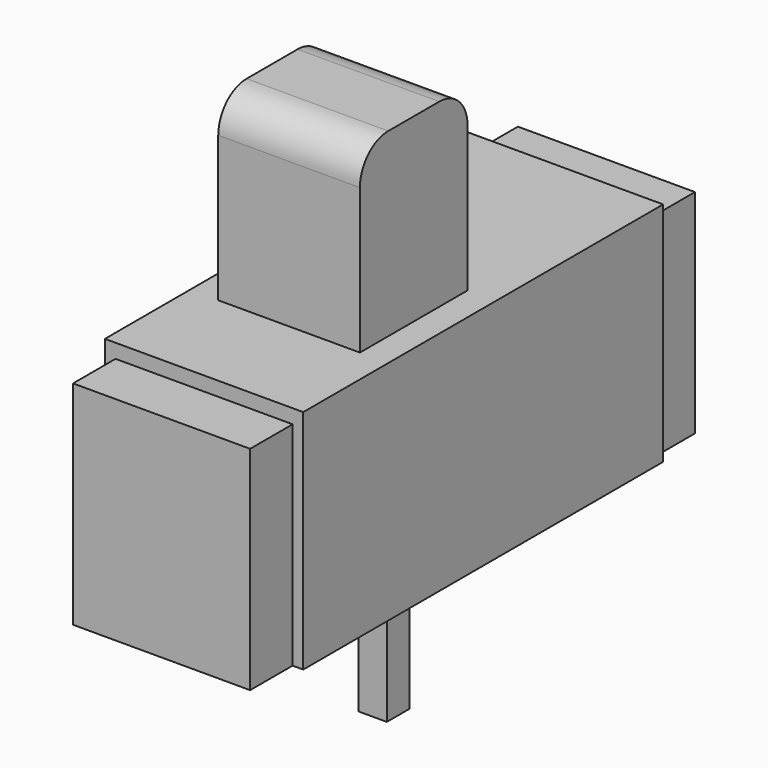
from build123d import *

# Parameters (mm, degrees)
BOX_W        = 5.6
BOX_H        = 12.7
BOX_DEPTH    = 6.4
BOX001_W     = 4
BOX001_H     = 3.8
BOX001_DEPTH = 5.1
FILLET_R     = 1
FILLET001_R  = 1
BOX002_W     = 0.8
BOX002_H     = 0.8
BOX002_DEPTH = 5
BOX003_W     = 5
BOX003_H     = 1.5
BOX003_DEPTH = 6
BOX004_W     = 5
BOX004_H     = 1.5
BOX004_DEPTH = 6


with BuildPart() as cube:
    # Box → Box (new body)
    with BuildSketch(Plane.XY):
        with Locations((2.8, 6.35)):
            Rectangle(BOX_W, BOX_H)
    extrude(amount=BOX_DEPTH)


with BuildPart() as fillet001:
    # Box001 → Box001 (new body)
    with BuildSketch(Plane(origin=(0.8, 3, 6.4), x_dir=(1, 0, 0), z_dir=(0, 0, 1))):
        with Locations((2, 1.9)):
            Rectangle(BOX001_W, BOX001_H)
    extrude(amount=BOX001_DEPTH)

    # Fillet
    fillet_edges = [fillet001.edges().sort_by_distance(p)[0] for p in [
        (2.8, 3, 11.5),
    ]]
    fillet(fillet_edges, radius=FILLET_R)

    # Fillet001
    fillet001_edges = [fillet001.edges().sort_by_distance(p)[0] for p in [
        (2.8, 6.8, 11.5),
    ]]
    fillet(fillet001_edges, radius=FILLET001_R)


with BuildPart() as cube002:
    # Box002 → Box002 (new body)
    with BuildSketch(Plane(origin=(2.4, 5.95, -4.5), x_dir=(1, 0, 0), z_dir=(0, 0, 1))):
        with Locations((0.4, 0.4)):
            Rectangle(BOX002_W, BOX002_H)
    extrude(amount=BOX002_DEPTH)


with BuildPart() as cube003:
    # Box003 → Box003 (new body)
    with BuildSketch(Plane(origin=(0.3, 12.7, 0), x_dir=(1, 0, 0), z_dir=(0, 0, 1))):
        with Locations((2.5, 0.75)):
            Rectangle(BOX003_W, BOX003_H)
    extrude(amount=BOX003_DEPTH)


with BuildPart() as cube004:
    # Box004 → Box004 (new body)
    with BuildSketch(Plane(origin=(0.3, -1.5, 0), x_dir=(1, 0, 0), z_dir=(0, 0, 1))):
        with Locations((2.5, 0.75)):
            Rectangle(BOX004_W, BOX004_H)
    extrude(amount=BOX004_DEPTH)


solid = Compound([cube.part, fillet001.part, cube002.part, cube003.part, cube004.part])
